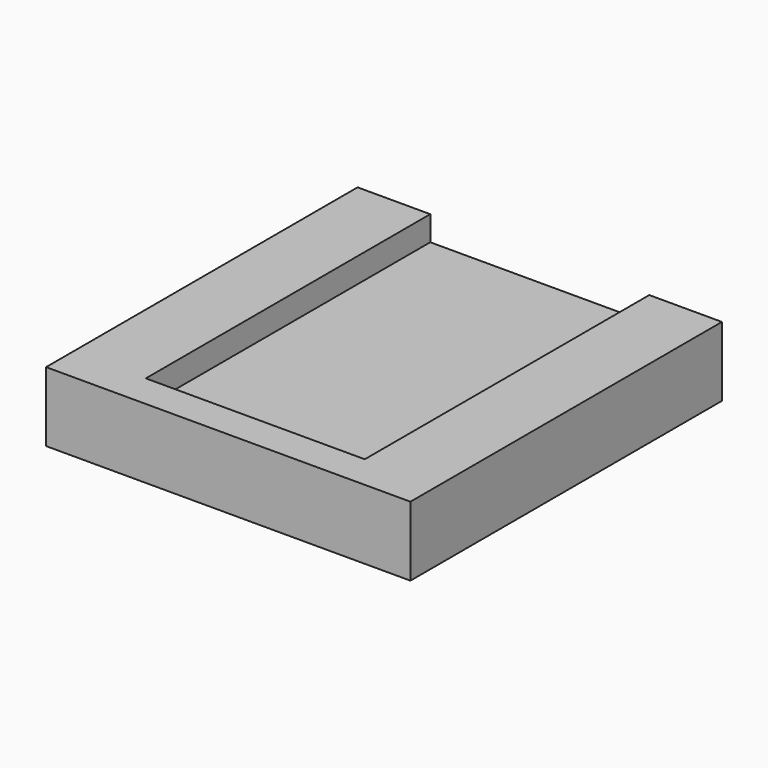
from build123d import *

# Parameters (mm, degrees)
F1_DEPTH  = 15
F1_FACE_W = 131
F1_FACE_H = 140
F2_DEPTH  = 10
F4_DEPTH  = 8.89


with BuildPart() as f1:
    # F0 (on Top) → F1 (new body)
    with BuildSketch(Plane.XY):
        Polygon((-65.5, 70), (-65.5, 0), (-65.5, -70), (0, -70), (65.5, -70), (65.5, -69.559447), (65.5, 0), (65.5, 70), (0, 70), align=None)
    extrude(amount=F1_DEPTH)

    # F1_face (on face) → F2 (join)
    with BuildSketch(Plane.XY.offset(15)):
        Rectangle(F1_FACE_W, F1_FACE_H)
    extrude(amount=F2_DEPTH)

    # F3 (on face) → F4 (cut)
    with BuildSketch(Plane.XY.offset(25)):
        Polygon((39.37, 70), (0, 70), (-39.37, 70), (-39.37, -57.848956), (0, -57.848956), (39.37, -57.848956), align=None)
    extrude(amount=-F4_DEPTH, mode=Mode.SUBTRACT)


solid = f1.part
